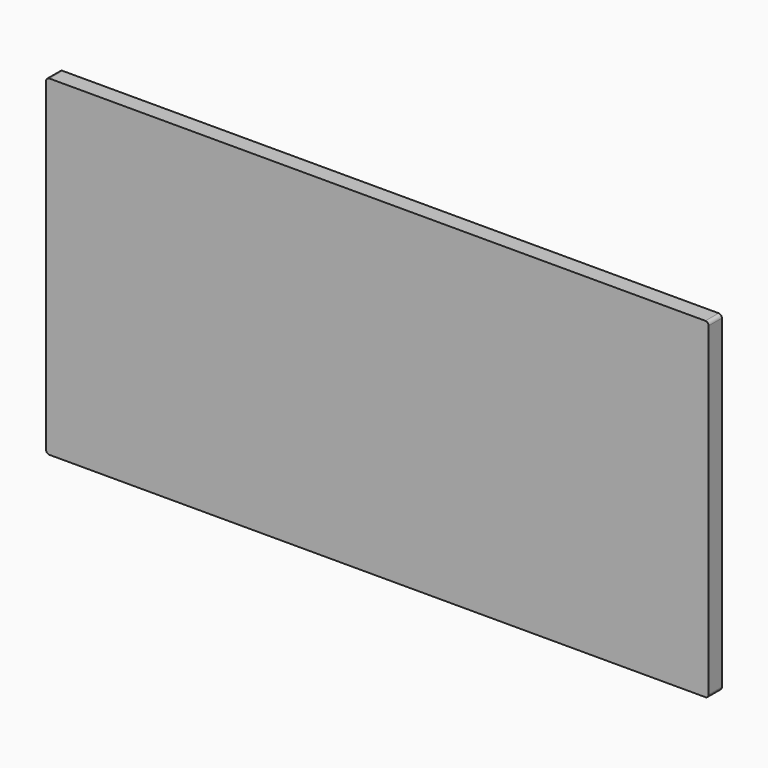
from build123d import *

# Parameters (mm, degrees)
F0_W     = 200
F0_H     = 100
F1_DEPTH = 5
F2_R     = 1


with BuildPart() as f1:
    # F0 (on Front) → F1 (new body)
    with BuildSketch(Plane.XZ):
        with Locations((2.277508, -13.941381)):
            Rectangle(F0_W, F0_H)
        with Locations((2.277508, -13.941381)):
            Rectangle(F0_W, F0_H)
    extrude(amount=F1_DEPTH)

    # F2
    f2_edges = [f1.edges().sort_by_distance(p)[0] for p in [
        (-97.722492, -2.5, 36.058619),
        (-97.722492, -2.5, -63.941381),
        (102.277508, -2.5, -63.941381),
        (102.277508, -2.5, 36.058619),
    ]]
    fillet(f2_edges, radius=F2_R)


solid = f1.part
